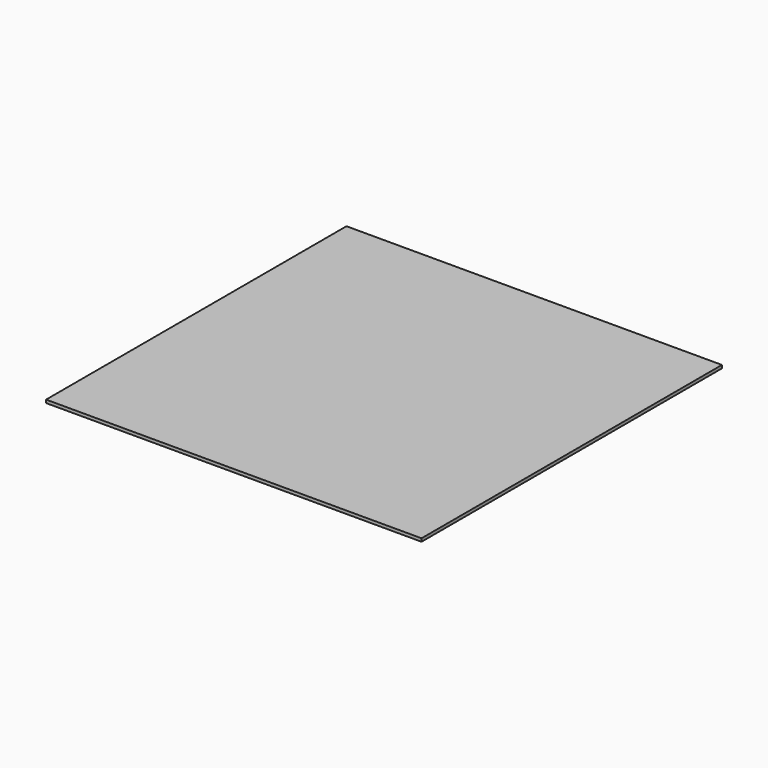
from build123d import *

# Parameters (mm, degrees)
F0_W = 2500
F0_H = 2500


with BuildPart() as f2:
    # F2: sweep along a path in F1
    with BuildLine(Plane.XZ) as f2_path:
        Line((0, 0), (0, 20.490544))
    # F0 (on Top) → F2 (sweep)
    with BuildSketch(Plane.XY):
        Rectangle(F0_W, F0_H)
    sweep(path=f2_path.line)


solid = f2.part
